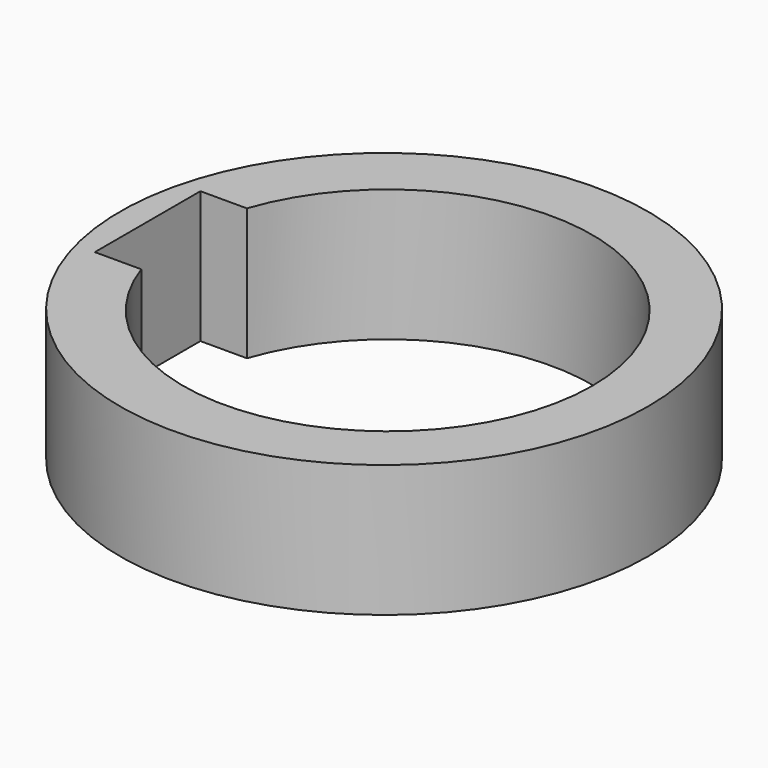
from build123d import *

# Parameters (mm, degrees)
F1_R     = 10
F2_DEPTH = 5
F0_R     = 7.75
F3_DEPTH = 25.4
F4_W     = 8.958675
F4_H     = 5
F5_DEPTH = 80


with BuildPart() as f2:
    # F1 (on Top) → F2 (new body)
    with BuildSketch(Plane.XY):
        Circle(F1_R)
    extrude(amount=F2_DEPTH)

    # F0 (on Top) → F3 (cut)
    with BuildSketch(Plane.XY):
        with Locations((0.138163, 0)):
            Circle(F0_R)
    extrude(amount=F3_DEPTH, mode=Mode.SUBTRACT)

    # F4 (on Top) → F5 (cut)
    with BuildSketch(Plane.XY):
        with Locations((-4.479337, 0)):
            Rectangle(F4_W, F4_H)
    extrude(amount=F5_DEPTH, mode=Mode.SUBTRACT)


solid = f2.part
